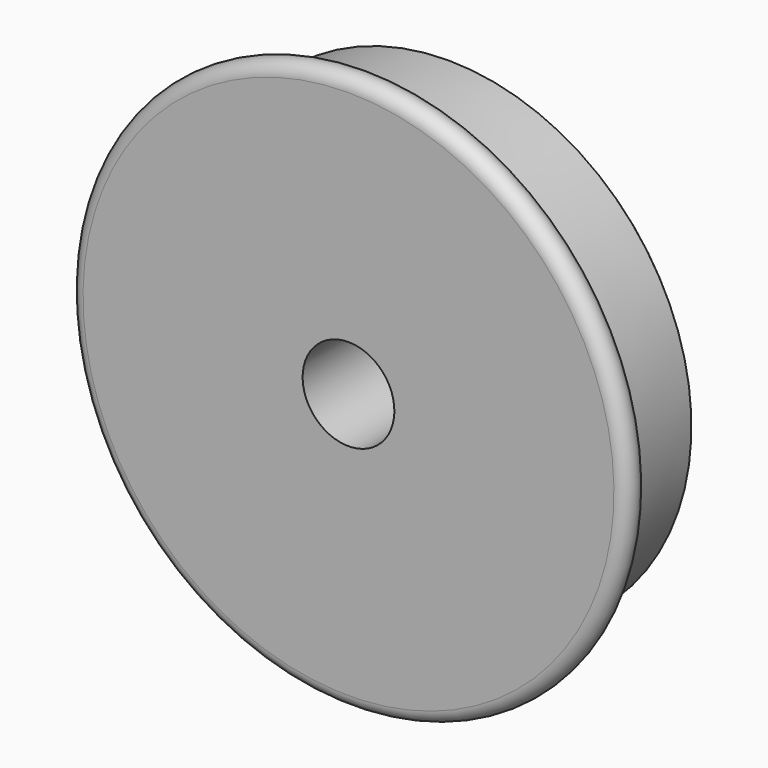
from build123d import *

# Parameters (mm, degrees)
F2_R    = 1.8
F3_SIZE = 1


with BuildPart() as f1:
    # F0 (on Right) → F1 (revolve)
    with BuildSketch(Plane.YZ):
        with BuildLine():
            Line((-10, 40.5), (-10, 7))
            Line((-10, 7), (10, 7))
            Line((10, 7), (10, 37.098887))
            Line((10, 37.098887), (-5.317889, 37.5))
            Line((-5.317889, 37.5), (-6.03756, 40.885786))
            ThreePointArc((-6.03756, 40.885786), (-8.193805, 42.490588), (-10, 40.5))
        make_face()
    revolve(axis=Axis((0, -1.591644, 0), (0, 1, 0)))

    # F2
    f2_edges = [f1.edges().sort_by_distance(p)[0] for p in [
        (0, -5.317889, -37.5),
    ]]
    fillet(f2_edges, radius=F2_R)

    # F3
    f3_edges = [f1.edges().sort_by_distance(p)[0] for p in [
        (0, 10, -37.098887),
    ]]
    chamfer(f3_edges, length=F3_SIZE)


solid = f1.part
